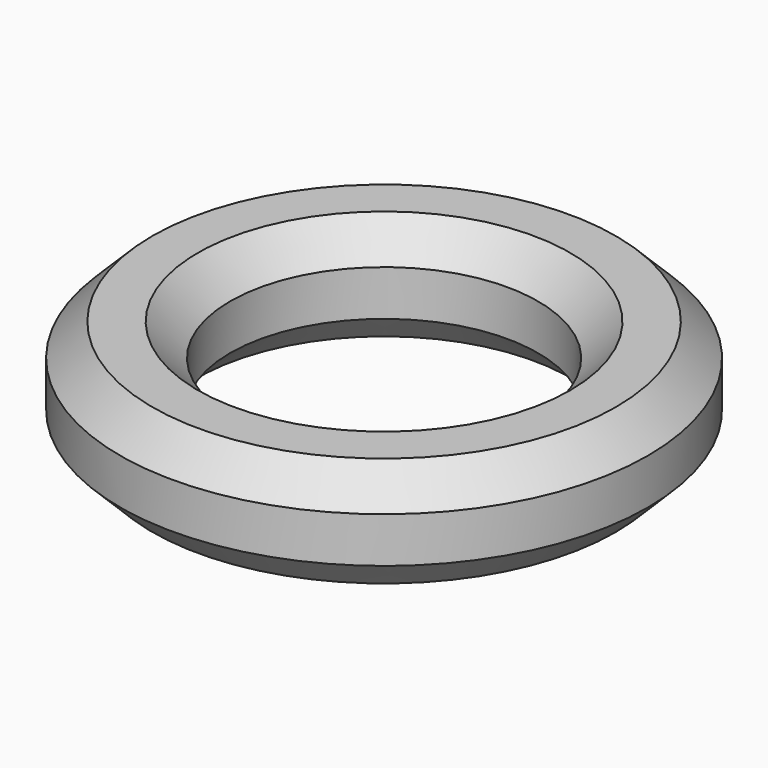
from build123d import *


with BuildPart() as f2:
    # F2: sweep along a path in F0
    with BuildLine(Plane.XY) as f2_path:
        CenterArc((0, 0), 30.1625, 0, 360)
    # F1 (on Front) → F2 (sweep)
    with BuildSketch(Plane.XZ):
        Polygon((26.87468, -7.9375), (33.45032, -7.9375), (38.1, -3.28782), (38.1, 3.28782), (33.45032, 7.9375), (26.87468, 7.9375), (22.225, 3.28782), (22.225, -3.28782), align=None)
    sweep(path=f2_path.line)


solid = f2.part
